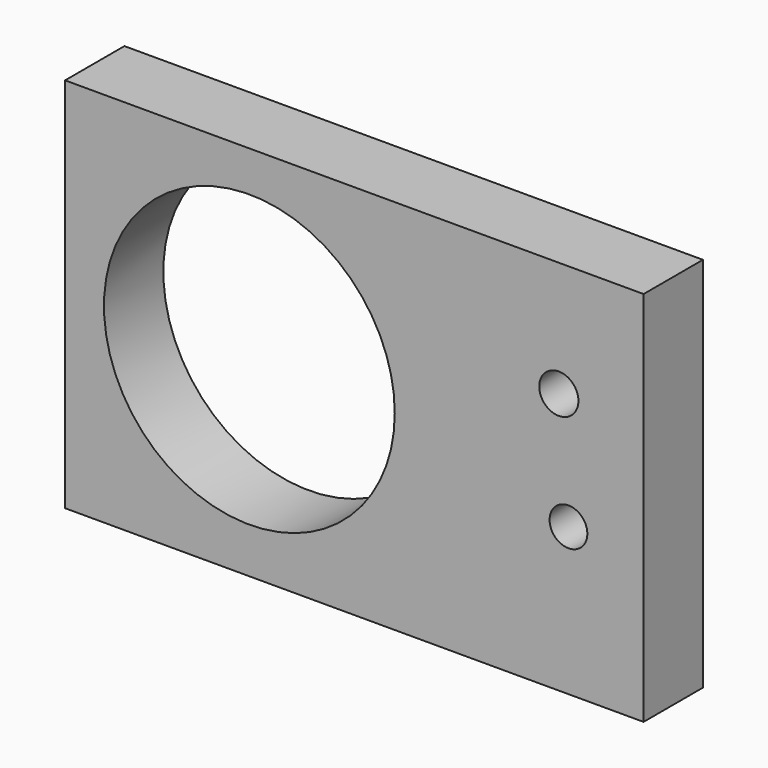
from build123d import *

# Parameters (mm, degrees)
F0_W     = 194.955856
F0_H     = 126.944736
F0_R     = 6.365504
F0_R_2   = 48.999093
F0_R_3   = 6.600609
F1_DEPTH = 25


with BuildPart() as f1:
    # F0 (on Front) → F1 (new body)
    with BuildSketch(Plane.XZ):
        with Locations((35.371989, -0.842303)):
            Rectangle(F0_W, F0_H)
        with Locations((107.535303, -14.661582)):
            Circle(F0_R, mode=Mode.SUBTRACT)
        Circle(F0_R_2, mode=Mode.SUBTRACT)
        with Locations((104.284093, 23.773747)):
            Circle(F0_R_3, mode=Mode.SUBTRACT)
    extrude(amount=F1_DEPTH)


solid = f1.part
